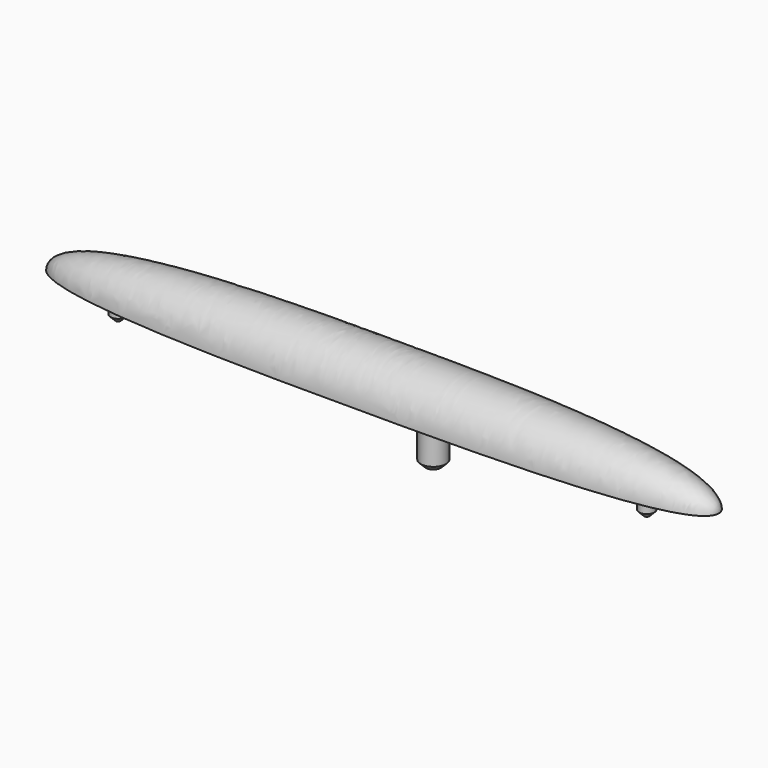
from build123d import *

# Parameters (mm, degrees)
F2_ANGLE = 180
F3_R     = 1.5
F4_DEPTH = 5
F3_R_2   = 2.5
F5_DEPTH = 10
F6_SIZE  = 1


with BuildPart() as f2:
    # F1 (on Top) → F2 (revolve)
    with BuildSketch(Plane.XY):
        with BuildLine():
            add(Edge.make_bspline(
                [(0, 7.8), (23.5922409624, 7.8), (66.5, 7.8), (66.5, 0)],
                knots=[0, 0, 0, 0, 1, 1, 1, 1], degree=3))
            add(Edge.make_bspline(
                [(0, 7.8), (-23.5922409624, 7.8), (-66.5, 7.8), (-66.5, 0)],
                knots=[0, 0, 0, 0, 1, 1, 1, 1], degree=3))
            Line((-66.5, 0), (66.5, 0))
        make_face()
    revolve(axis=Axis((0, 0, 0), (1, 0, 0)), revolution_arc=F2_ANGLE)

    # F3 (on Top) → F4 (join)
    with BuildSketch(Plane.XY):
        with Locations((-52.8, 0)):
            Circle(F3_R)
        with Locations((52.2, 0)):
            Circle(F3_R)
    extrude(amount=-F4_DEPTH)

    # F3 (on Top) → F5 (join)
    with BuildSketch(Plane.XY):
        with Locations((9.8, 0)):
            Circle(F3_R_2)
    extrude(amount=-F5_DEPTH)

    # F6
    f6_edges = [f2.edges().sort_by_distance(p)[0] for p in [
        (-54.3, 0, -5),
        (7.3, 0, -10),
        (50.7, 0, -5),
    ]]
    chamfer(f6_edges, length=F6_SIZE)


solid = f2.part
